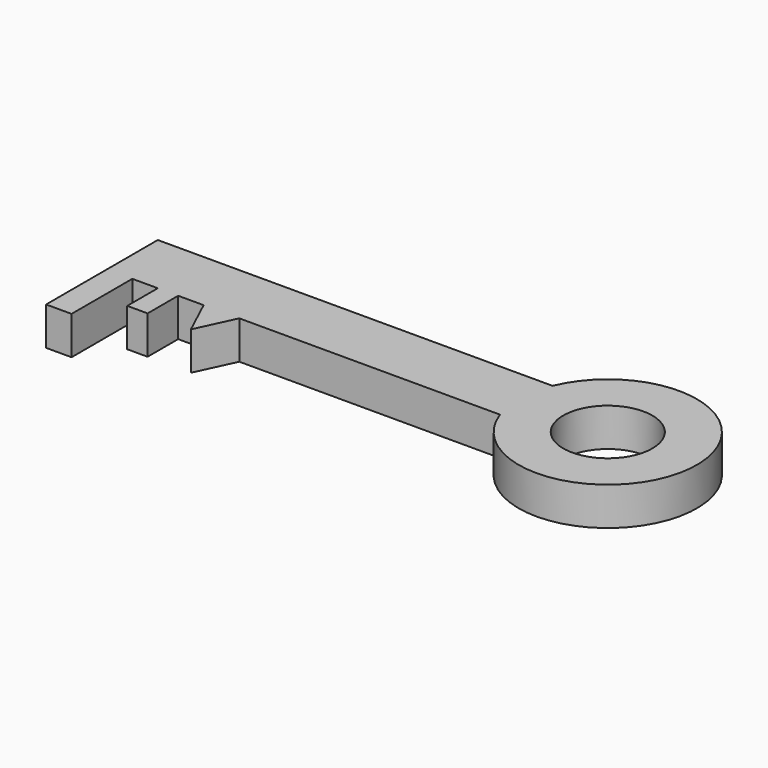
from build123d import *

# Parameters (mm, degrees)
F0_R     = 17.5
F0_W     = 10
F0_H     = 0.180238
F0_H_2   = 29.819762
F0_W_2   = 8
F0_H_3   = 15
F1_DEPTH = 15


with BuildPart() as f1:
    # F0 (on Top) → F1 (new body)
    with BuildSketch(Plane.XY):
        with BuildLine():
            Line((93.510551, 25), (-61.489449, 25))
            Line((-61.489449, 25), (-61.489449, 0.180238))
            Line((-61.489449, 0.180238), (-51.489449, 0.180238))
            Line((-51.489449, 0.180238), (-51.489449, 0))
            Line((-51.489449, 0), (-41.489449, 0))
            Line((-41.489449, 0), (-33.489449, 0))
            Line((-33.489449, 0), (-23.489449, 0))
            Line((-23.489449, 0), (-9.489449, 0))
            Line((-9.489449, 0), (92.862259, 0))
            ThreePointArc((92.862259, 0), (160.853792, 10.745271), (93.510551, 25))
        make_face()
        with Locations((125.865554, 11.652575)):
            Circle(F0_R, mode=Mode.SUBTRACT)
        with Locations((-56.489449, 0.090119)):
            Rectangle(F0_W, F0_H)
        with Locations((-56.489449, -14.909881)):
            Rectangle(F0_W, F0_H_2)
        Polygon((-16.489578, -15), (-9.489449, 0), (-23.489449, 0), align=None)
        with Locations((-37.489449, -7.5)):
            Rectangle(F0_W_2, F0_H_3)
    extrude(amount=F1_DEPTH)


solid = f1.part
